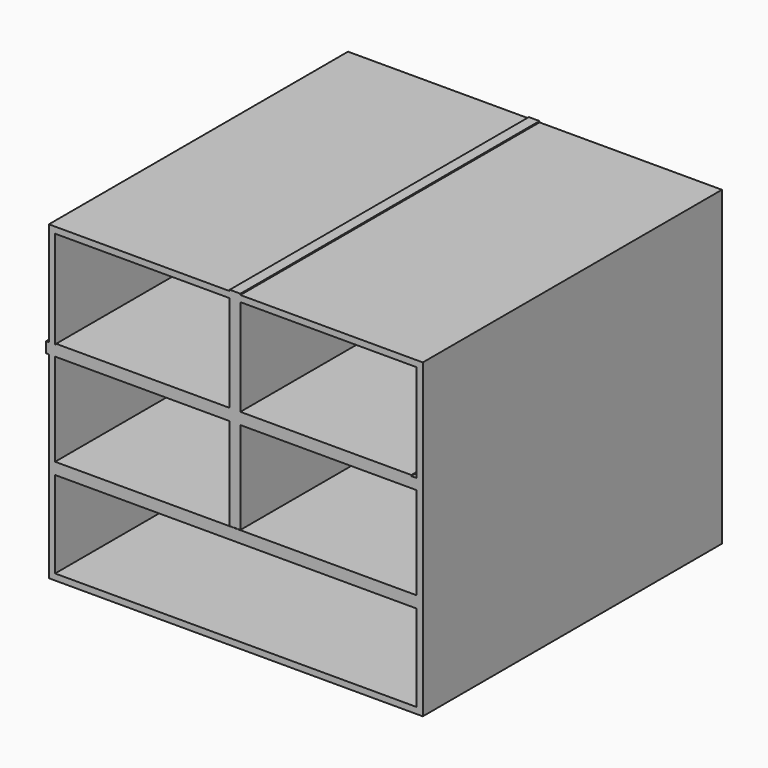
from build123d import *

# Parameters (mm, degrees)
F0_W     = 152.4
F0_H     = 127
F1_DEPTH = 152.4
F2_T     = -2.54
F3_W     = 144.78
F3_H     = 4.651744
F3_W_2   = 149.86
F3_H_2   = 4.752902
F4_DEPTH = 152.4
F5_W     = 152.4
F5_H     = 4.3434
F6_DEPTH = 152.4
F8_DEPTH = 152.4


with BuildPart() as f1:
    # F0 (on Front) → F1 (new body)
    with BuildSketch(Plane.XZ):
        with Locations((-40.71237, -4.145074)):
            Rectangle(F0_W, F0_H)
    extrude(amount=F1_DEPTH)

    # F2
    f2_openings = [f1.faces().sort_by_distance(p)[0] for p in [
        (-40.71237, -152.4, -4.145074),
    ]]
    offset(amount=F2_T, openings=f2_openings)

    # F3 (on Front) → F4 (join)
    with BuildSketch(Plane.XZ):
        with Locations((-41.570326, 15.118169)):
            Rectangle(F3_W, F3_H)
        with Locations((-39.960672, -27.394711)):
            Rectangle(F3_W_2, F3_H_2)
    extrude(amount=F4_DEPTH)

    # F5 (on Front) → F6 (join)
    with BuildSketch(Plane.XZ):
        with Locations((-41.850881, 14.875366)):
            Rectangle(F5_W, F5_H)
    extrude(amount=F6_DEPTH)

    # F7 (on Front) → F8 (join)
    with BuildSketch(Plane.XZ):
        Polygon((-38.857852, 59.844222), (-41.029552, 59.844222), (-43.201252, 59.844222), (-43.201252, -24.935095), (-38.857852, -24.935095), align=None)
    extrude(amount=F8_DEPTH)


solid = f1.part
